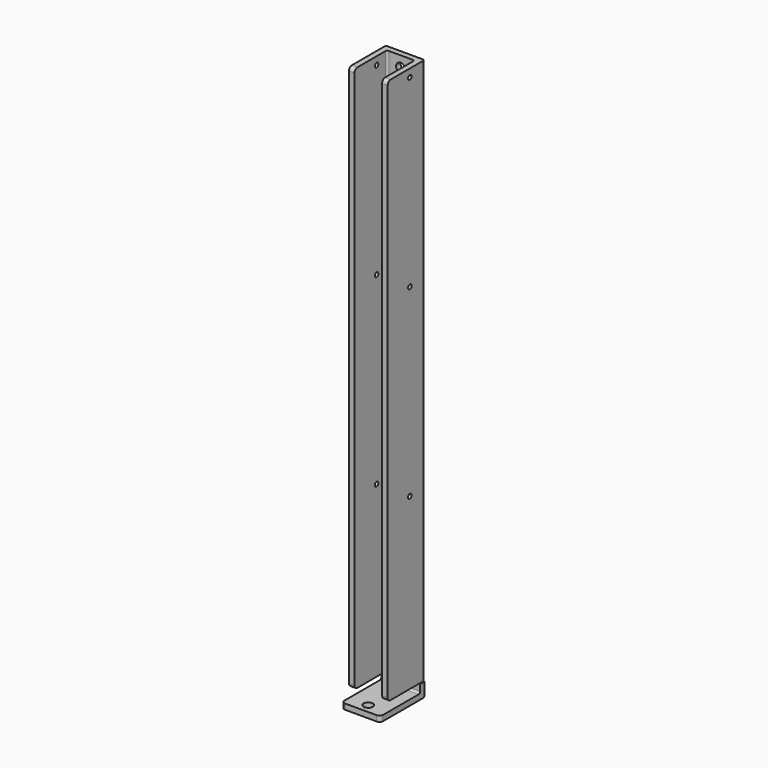
from build123d import *

# Parameters (mm, degrees)
F1_DEPTH  = 15
F2_W      = 3
F2_H      = 296.3
F3_DEPTH  = 25
F4_R      = 2.5
F5_DEPTH  = 3
F6_W      = 1
F6_H      = 0.5
F7_DEPTH  = 3
F8_R      = 1
F9_R      = 2.5
F9_R_2    = 1.2
F10_DEPTH = 3
F11_R     = 1.2
F12_DEPTH = 34.2
F13_DEPTH = 3
F14_R     = 2


with BuildPart() as f1:
    # F0 (on Right) → F1 (new body)
    with BuildSketch(Plane.YZ):
        Polygon((-7.5968508422, 3), (-7.5968508422, 0), (22.4031491578, 0), (22.4031491578, 304.3), (19.4031491578, 304.3), (19.4031491578, 3), align=None)
    extrude(amount=F1_DEPTH)

    # F2 (on face) → F3 (join)
    with BuildSketch(Plane(origin=(0, 22.4031491578, 0), x_dir=(-1, 0, 0), z_dir=(0, 1, 0))):
        with Locations((1.5, 156.15)):
            Rectangle(F2_W, F2_H)
        with Locations((-16.5, 156.15)):
            Rectangle(F2_W, F2_H)
    extrude(amount=-F3_DEPTH)

    # F4 (on face) → F5 (cut)
    with BuildSketch(Plane.XY.offset(3)):
        with Locations((7.5, -2.5968508422)):
            Circle(F4_R)
        with Locations((7.5, 12.4031491578)):
            Circle(F4_R)
    extrude(amount=-F5_DEPTH, mode=Mode.SUBTRACT)

    # F6 (on face) → F7 (cut)
    with BuildSketch(Plane.XZ.offset(-19.4031491578)):
        with Locations((0.5, 7.75)):
            Rectangle(F6_W, F6_H)
        with Locations((14.5, 7.75)):
            Rectangle(F6_W, F6_H)
    extrude(amount=-F7_DEPTH, mode=Mode.SUBTRACT)

    # F8
    f8_edges = [f1.edges().sort_by_distance(p)[0] for p in [
        (7.5, 19.403149, 3),
        (7.5, 22.403149, 0),
        (0, 19.403149, 156.15),
        (-3, 22.403149, 156.15),
        (18, 22.403149, 156.15),
        (15, 19.403149, 156.15),
    ]]
    fillet(f8_edges, radius=F8_R)

    # F9 (on face) → F10 (cut)
    with BuildSketch(Plane.XZ.offset(-19.4031491578)):
        with Locations((7.5, 298.3)):
            Circle(F9_R)
        with Locations((7.5, 100)):
            Circle(F9_R_2)
        with Locations((7.5, 200)):
            Circle(F9_R_2)
    extrude(amount=-F10_DEPTH, mode=Mode.SUBTRACT)

    # F11 (on face) → F12 (cut)
    with BuildSketch(Plane(origin=(-3, 0, 0), x_dir=(0, -1, 0), z_dir=(-1, 0, 0))):
        with Locations((-12.4031491578, 200)):
            Circle(F11_R)
        with Locations((-12.4031491578, 100)):
            Circle(F11_R)
        with Locations((-12.4031491578, 300)):
            Circle(F11_R)
    extrude(amount=-F12_DEPTH, mode=Mode.SUBTRACT)

    # F13 (add, symmetric): faces of the model
    f13_faces = [f1.faces().sort_by_distance(p)[0] for p in [
        (0, 9.1577983799, 1.9953507779),
        (15, 9.1577983799, 1.9953507779),
    ]]
    extrude(f13_faces, amount=F13_DEPTH, both=True, dir=(-1, 0, 0))

    # F14
    f14_edges = [f1.edges().sort_by_distance(p)[0] for p in [
        (-3, -7.596851, 1.5),
        (18, -7.596851, 1.5),
        (16.5, -2.596851, 8),
        (-1.5, -2.596851, 8),
        (-1.5, -2.596851, 304.3),
        (16.5, -2.596851, 304.3),
    ]]
    fillet(f14_edges, radius=F14_R)


solid = f1.part
